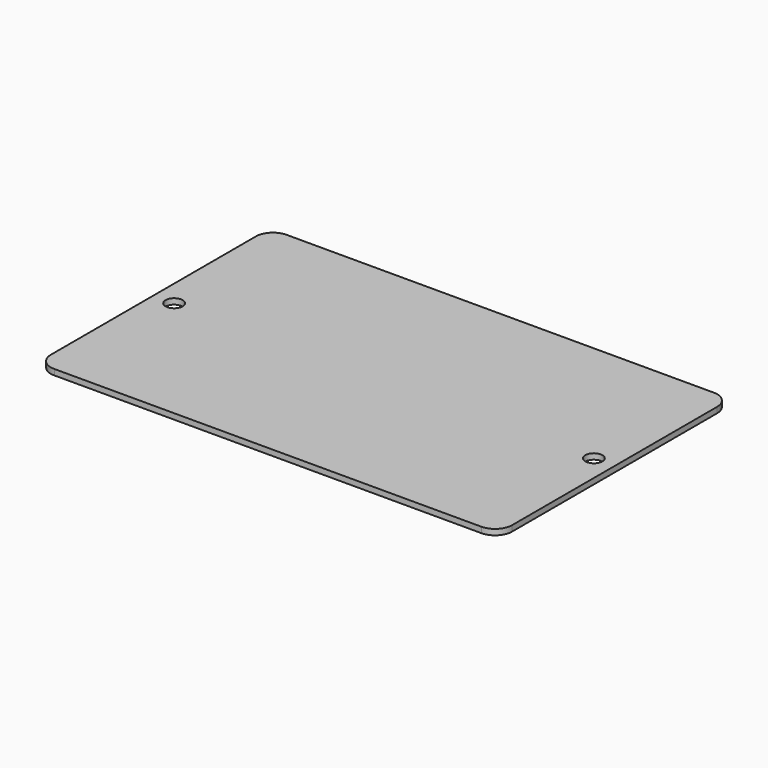
from build123d import *

# Parameters (mm, degrees)
F1_DEPTH = 1
F2_D     = 3


with BuildPart() as f1:
    # F0 (on Top) → F1 (new body)
    with BuildSketch(Plane.XY):
        with BuildLine():
            Line((37.5, 25.5), (-37.5, 25.5))
            ThreePointArc((-37.5, 25.5), (-39.62132, 24.62132), (-40.5, 22.5))
            Line((-40.5, 22.5), (-40.5, -22.5))
            ThreePointArc((-40.5, -22.5), (-39.62132, -24.62132), (-37.5, -25.5))
            Line((-37.5, -25.5), (37.5, -25.5))
            ThreePointArc((37.5, -25.5), (39.62132, -24.62132), (40.5, -22.5))
            Line((40.5, -22.5), (40.5, 22.5))
            ThreePointArc((40.5, 22.5), (39.62132, 24.62132), (37.5, 25.5))
        make_face()
    extrude(amount=F1_DEPTH)

    # F2 (through all)
    with Locations(Plane(origin=(0, 0, 0), x_dir=(1, 0, 0), z_dir=(0, 0, -1))):
        with Locations((-36.85, 0), (36.85, 0)):
            Hole(F2_D / 2)


solid = f1.part
